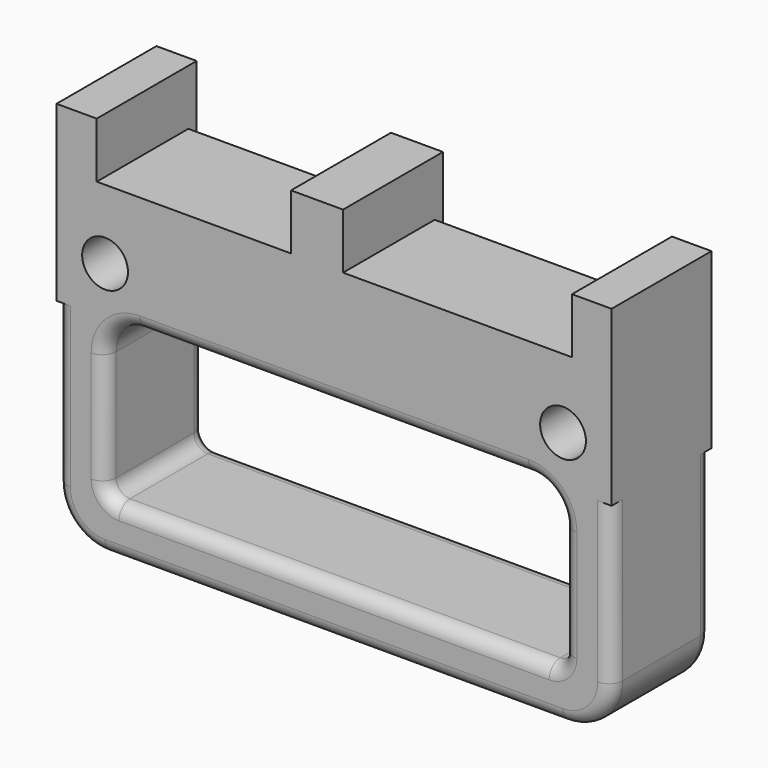
from build123d import *

# Parameters (mm, degrees)
F0_R     = 3.3
F1_DEPTH = 18
F2_W     = 33
F2_H     = 4
F2_W_2   = 28
F3_DEPTH = 1.5
F4_R     = 2
F5_W     = 5.8
F5_H     = 18
F5_W_2   = 5.7
F6_DEPTH = 25
F7_R     = 3.3
F8_DEPTH = 18.001


with BuildPart() as f1:
    # F0 (on Front) → F1 (new body)
    with BuildSketch(Plane.XZ):
        with BuildLine():
            Line((0, 25), (0, 0))
            Line((0, 0), (0, -23))
            ThreePointArc((0, -23), (2.050253, -27.949747), (7, -30))
            Line((7, -30), (73, -30))
            ThreePointArc((73, -30), (77.949747, -27.949747), (80, -23))
            Line((80, -23), (80, 0))
            Line((80, 0), (80, 25))
            Line((80, 25), (74.3, 25))
            Line((74.3, 25), (74.3, 17))
            Line((74.3, 17), (41.3, 17))
            Line((41.3, 17), (41.3, 25))
            Line((41.3, 25), (33.8, 25))
            Line((33.8, 25), (33.8, 17))
            Line((33.8, 17), (5.8, 17))
            Line((5.8, 17), (5.8, 25))
            Line((5.8, 25), (0, 25))
        make_face()
        with BuildLine():
            ThreePointArc((7, -5), (8.464466, -1.464466), (12, 0))
            Line((12, 0), (68, 0))
            ThreePointArc((68, 0), (71.535534, -1.464466), (73, -5))
            Line((73, -5), (73, -21))
            ThreePointArc((73, -21), (72.414214, -22.414214), (71, -23))
            Line((71, -23), (9, -23))
            ThreePointArc((9, -23), (7.585786, -22.414214), (7, -21))
            Line((7, -21), (7, -5))
        make_face(mode=Mode.SUBTRACT)
        with Locations((7, 7)):
            Circle(F0_R, mode=Mode.SUBTRACT)
        with Locations((73, 7)):
            Circle(F0_R, mode=Mode.SUBTRACT)
    extrude(amount=F1_DEPTH)

    # F2 (on face) → F3 (cut)
    with BuildSketch(Plane(origin=(0, 0, 0), x_dir=(-1, 0, 0), z_dir=(0, 1, 0))):
        with Locations((-57.8, 15)):
            Rectangle(F2_W, F2_H)
        with Locations((-19.8, 15)):
            Rectangle(F2_W_2, F2_H)
    extrude(amount=-F3_DEPTH, mode=Mode.SUBTRACT)

    # F4
    f4_edges = [f1.edges().sort_by_distance(p)[0] for p in [
        (72.414214, 0, -22.414214),
        (73, 0, -13),
        (7, -18, -13),
        (40, 0, -30),
        (0, -18, 1),
    ]]
    fillet(f4_edges, radius=F4_R)

    # F5 (on face) → F6 (join)
    with BuildSketch(Plane.XY.offset(25)):
        with Locations((2.9, -9)):
            Rectangle(F5_W, F5_H)
        with Locations((77.15, -9)):
            Rectangle(F5_W_2, F5_H)
    extrude(amount=-F6_DEPTH)

    # F7 (on face) → F8 (cut, through all)
    with BuildSketch(Plane.XZ.offset(18)):
        with Locations((73, 7)):
            Circle(F7_R)
        with Locations((7, 7)):
            Circle(F7_R)
    extrude(amount=-F8_DEPTH, mode=Mode.SUBTRACT)


solid = f1.part
